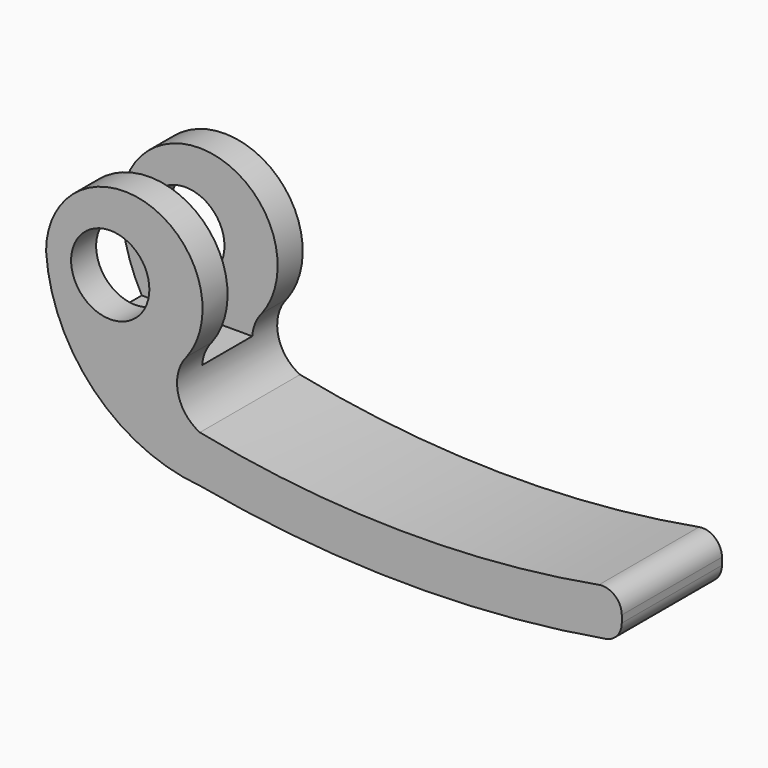
from build123d import *

# Parameters (mm, degrees)
F0_R     = 3.175
F1_DEPTH = 10.16
F2_W     = 5.08
F2_H     = 13.335
F3_DEPTH = 12.7
F4_R     = 1.5748


with BuildPart() as f1:
    # F0 (on Front) → F1 (new body)
    with BuildSketch(Plane.XZ):
        with BuildLine():
            ThreePointArc((6.132791, -8.89), (4.348923, -6.627547), (5.060618, -3.835707))
            ThreePointArc((5.060618, -3.835707), (2.023311, 6.019029), (-6.35, 0))
            ThreePointArc((-6.35, 0), (-2.471626, -8.672607), (6.132791, -12.7))
            ThreePointArc((6.132791, -12.7), (23.253233, -14.268605), (40.373676, -12.7))
            Line((40.373676, -12.7), (40.373676, -8.89))
            ThreePointArc((40.373676, -8.89), (23.253233, -10.614816), (6.132791, -8.89))
        make_face()
        with Locations((-1.143, 0)):
            Circle(F0_R, mode=Mode.SUBTRACT)
    extrude(amount=-F1_DEPTH)

    # F2 (on Right) → F3 (cut, symmetric)
    with BuildSketch(Plane.YZ):
        with Locations((5.08, 0.9525)):
            Rectangle(F2_W, F2_H)
    extrude(amount=F3_DEPTH, both=True, mode=Mode.SUBTRACT)

    # F4
    f4_edges = [f1.edges().sort_by_distance(p)[0] for p in [
        (40.373676, 5.08, -8.89),
        (40.373676, 5.08, -12.7),
    ]]
    fillet(f4_edges, radius=F4_R)


solid = f1.part
